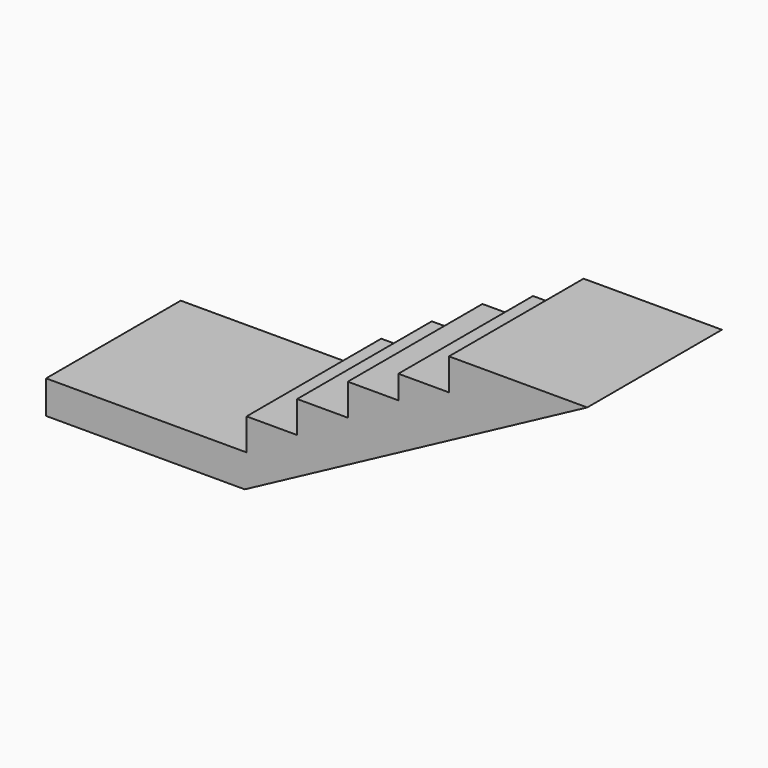
from build123d import *

# Parameters (mm, degrees)
F1_DEPTH = 45.75
F0_W     = 92.0192270279
F0_H     = 18
F2_DEPTH = 45.75


with BuildPart() as f1:
    # F0 (on Front) → F1 (new body, symmetric)
    with BuildSketch(Plane.XZ):
        Polygon((-55.0192270279, -6.6813373144), (-55.0192270279, -23.9313373144), (-72, -23.9313373144), (-72, -41.9313373144), (-56, -41.9313373144), (130.2, 57.8186626856), (55, 57.8186626856), (55, 40.5686626856), (27.5, 40.5686626856), (27.5, 27.8186626856), (0, 27.8186626856), (0, 10.5686626856), (-27.5192270279, 10.5686626856), (-27.5192270279, -6.6813373144), align=None)
    extrude(amount=F1_DEPTH, both=True)

    # F0 (on Front) → F2 (join, symmetric)
    with BuildSketch(Plane.XZ):
        Polygon((-55.0192270279, -6.6813373144), (-55.0192270279, -23.9313373144), (-72, -23.9313373144), (-72, -41.9313373144), (-56, -41.9313373144), (130.2, 57.8186626856), (55, 57.8186626856), (55, 40.5686626856), (27.5, 40.5686626856), (27.5, 27.8186626856), (0, 27.8186626856), (0, 10.5686626856), (-27.5192270279, 10.5686626856), (-27.5192270279, -6.6813373144), align=None)
        with Locations((-118.0096135139, -32.9313373144)):
            Rectangle(F0_W, F0_H)
    extrude(amount=F2_DEPTH, both=True)


solid = f1.part
